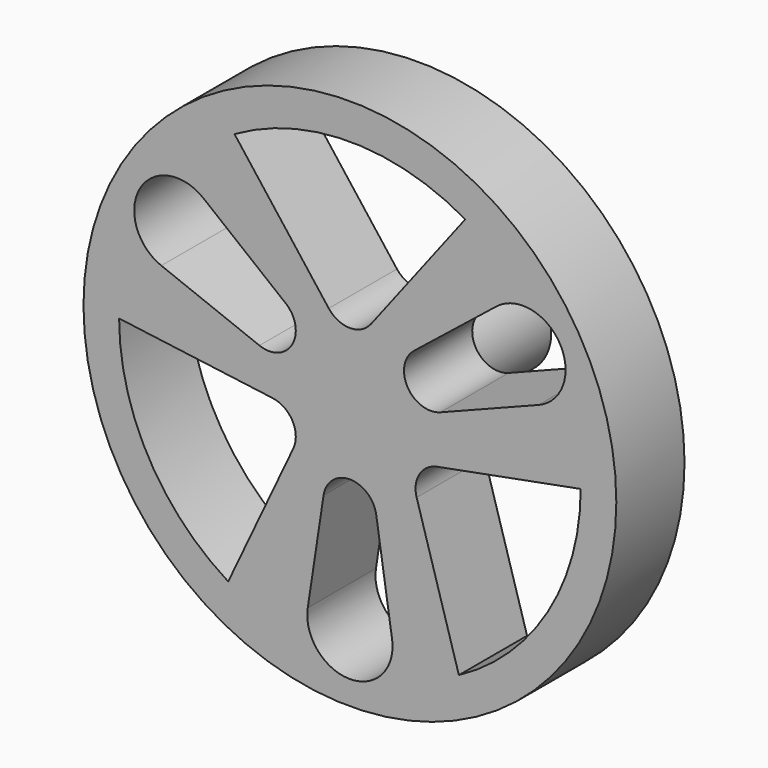
from build123d import *

# Parameters (mm, degrees)
F0_R     = 25
F1_DEPTH = 8
F2_R     = 4.5
F3_DEPTH = 10


with BuildPart() as f1:
    # F0 (on Front) → F1 (new body)
    with BuildSketch(Plane.XZ):
        Circle(F0_R)
        with BuildLine():
            ThreePointArc((-11.41974, -18.40681), (-18.926328, -10.531638), (-21.656125, 0))
            Line((-21.656125, 0), (-7.251412, -1.896387))
            ThreePointArc((-7.251412, -1.896387), (-5.698124, -2.726634), (-5.077722, -4.375))
            ThreePointArc((-5.077722, -4.375), (-5.137967, -4.920521), (-5.315796, -5.439749))
            Line((-5.315796, -5.439749), (-11.41974, -18.40681))
        make_face(mode=Mode.SUBTRACT)
        with BuildLine():
            ThreePointArc((3.954744, -18.15), (3.98867, -18.449148), (4, -18.75))
            ThreePointArc((4, -18.75), (-0.300852, -22.73867), (-3.954744, -18.15))
            Line((-3.954744, -18.15), (-2.471715, -8.375))
            ThreePointArc((-2.471715, -8.375), (0, -6.25), (2.471715, -8.375))
            Line((2.471715, -8.375), (3.954744, -18.15))
        make_face(mode=Mode.SUBTRACT)
        with BuildLine():
            ThreePointArc((21.656125, 0), (18.581596, -11.128932), (10.225404, -19.09636))
            Line((10.225404, -19.09636), (6.263058, -5.709543))
            ThreePointArc((6.263058, -5.709543), (6.526504, -3.697268), (8.196058, -2.543474))
            Line((8.196058, -2.543474), (21.656125, 0))
        make_face(mode=Mode.SUBTRACT)
        with BuildLine():
            ThreePointArc((-17.695733, 5.650091), (-19.702078, 11.375), (-13.740989, 12.499909))
            Line((-13.740989, 12.499909), (-6.017105, 6.328068))
            ThreePointArc((-6.017105, 6.328068), (-5.324775, 5.458618), (-5.077722, 4.375))
            ThreePointArc((-5.077722, 4.375), (-6.168422, 2.310085), (-8.48882, 2.046932))
            Line((-8.48882, 2.046932), (-17.695733, 5.650091))
        make_face(mode=Mode.SUBTRACT)
        with BuildLine():
            ThreePointArc((13.740989, 12.499909), (17.971766, 12.979716), (20.237976, 9.375))
            ThreePointArc((20.237976, 9.375), (19.54184, 7.120119), (17.695733, 5.650091))
            Line((17.695733, 5.650091), (8.48882, 2.046932))
            ThreePointArc((8.48882, 2.046932), (5.412659, 3.125), (6.017105, 6.328068))
            Line((6.017105, 6.328068), (13.740989, 12.499909))
        make_face(mode=Mode.SUBTRACT)
        with BuildLine():
            Line((-1.983311, 7.228003), (-10.825318, 18.75))
            ThreePointArc((-10.825318, 18.75), (0, 21.649786), (10.825318, 18.75))
            Line((10.825318, 18.75), (1.983311, 7.228003))
            ThreePointArc((1.983311, 7.228003), (0, 6.25), (-1.983311, 7.228003))
        make_face(mode=Mode.SUBTRACT)
    extrude(amount=F1_DEPTH)

    # F2 (on face) → F3 (join)
    with BuildSketch(Plane(origin=(0, 0, 0), x_dir=(-1, 0, 0), z_dir=(0, 1, 0))):
        Circle(F2_R)
    extrude(amount=F3_DEPTH)


solid = f1.part
